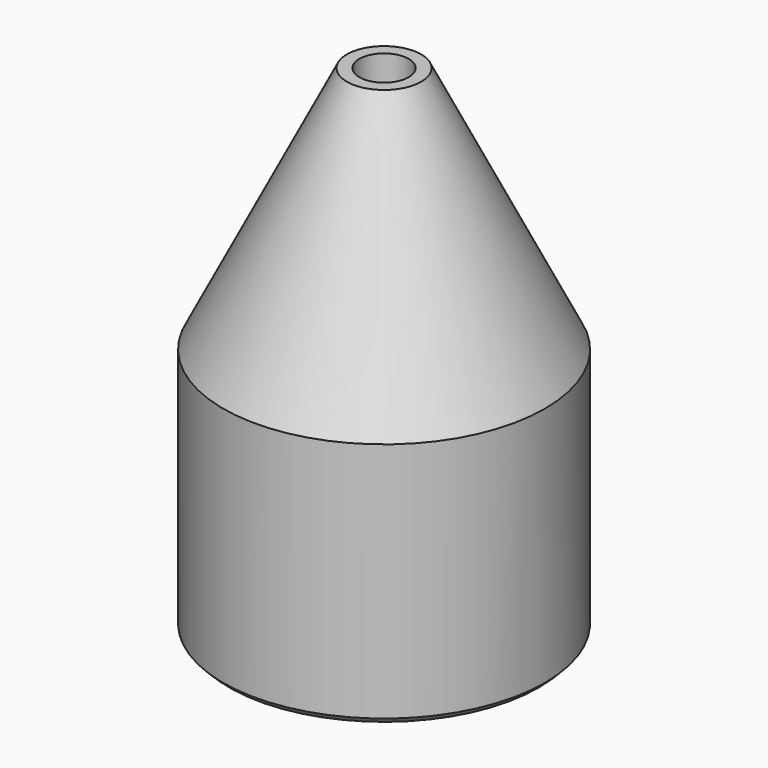
from build123d import *

# Parameters (mm, degrees)
CYLINDER_R     = 4
CYLINDER_DEPTH = 40
TUBE_R         = 26
TUBE_R_2       = 23.5
TUBE_DEPTH     = 40
CHAMFER_SIZE   = 1


with BuildPart() as cylinder:
    # Cylinder → Cylinder (new body)
    with BuildSketch(Plane.XY.offset(40)):
        Circle(CYLINDER_R)
    extrude(amount=CYLINDER_DEPTH)


with BuildPart() as tube:
    # Tube → Tube (new body)
    with BuildSketch(Plane.XY):
        Circle(TUBE_R)
        Circle(TUBE_R_2, mode=Mode.SUBTRACT)
    extrude(amount=TUBE_DEPTH)


with BuildPart() as chamfer_body:
    # Cone → Cone (revolve)
    with BuildSketch(Plane(origin=(0, 0, 40), x_dir=(1, 0, 0), z_dir=(0, -1, 0))):
        Polygon((0, 0), (26, 0), (6, 40), (0, 40), align=None)
    revolve(axis=Axis((0, 0, 40), (0, 0, 1)))

    # Fusion: union Tube
    add(tube.part)

    # Cut: cut Cylinder
    add(cylinder.part, mode=Mode.SUBTRACT)

    # Chamfer
    chamfer_edges = [chamfer_body.edges().sort_by_distance(p)[0] for p in [
        (-26, 0, 0),
        (-23.5, 0, 0),
    ]]
    chamfer(chamfer_edges, length=CHAMFER_SIZE)


solid = chamfer_body.part
